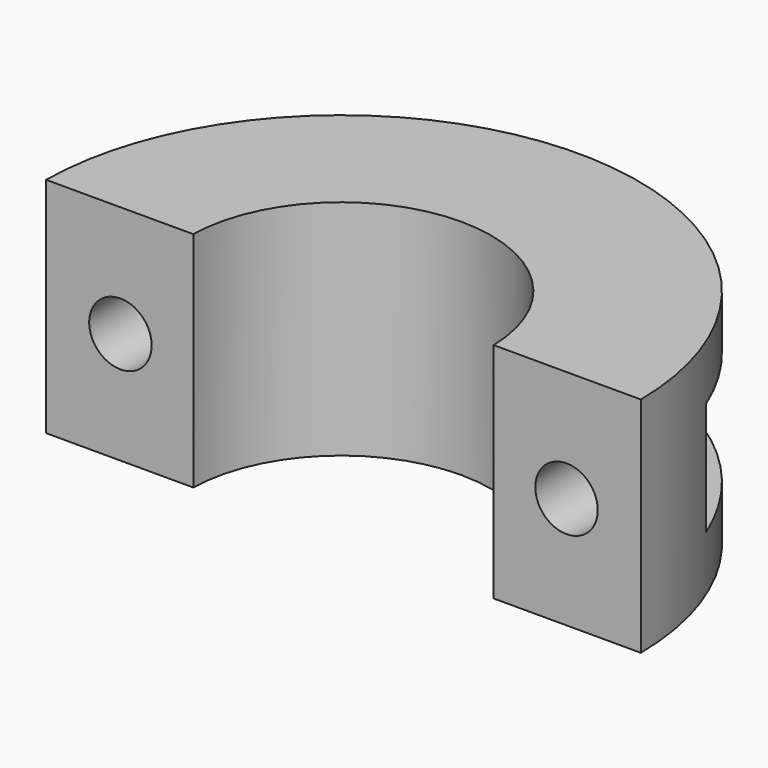
from build123d import *

# Parameters (mm, degrees)
F1_DEPTH = 9.525
F2_R     = 2.667
F4_DEPTH = 25.401
F5_W     = 11.42873
F5_H     = 9.652
F6_DEPTH = 15.876


with BuildPart() as f1:
    # F0 (on Top) → F1 (new body, symmetric)
    with BuildSketch(Plane.XY):
        with BuildLine():
            ThreePointArc((-12.824485, 0.254), (0, 12.827), (12.824485, 0.254))
            Line((12.824485, 0.254), (25.39873, 0.254))
            ThreePointArc((25.39873, 0.254), (0, 25.4), (-25.39873, 0.254))
            Line((-25.39873, 0.254), (-12.824485, 0.254))
        make_face()
    extrude(amount=F1_DEPTH, both=True)

    # F2 (on Front) → F4 (cut, through all)
    with BuildSketch(Plane.XZ):
        with Locations((-19.05, 0)):
            Circle(F2_R)
        with Locations((19.05, 0)):
            Circle(F2_R)
    extrude(amount=-F4_DEPTH, mode=Mode.SUBTRACT)

    # F5 (on offset) → F6 (cut, through all)
    with BuildSketch(Plane.XZ.offset(-9.525)):
        with Locations((19.684365, 0)):
            Rectangle(F5_W, F5_H)
        with Locations((-19.684365, 0)):
            Rectangle(F5_W, F5_H)
    extrude(amount=-F6_DEPTH, mode=Mode.SUBTRACT)


solid = f1.part
